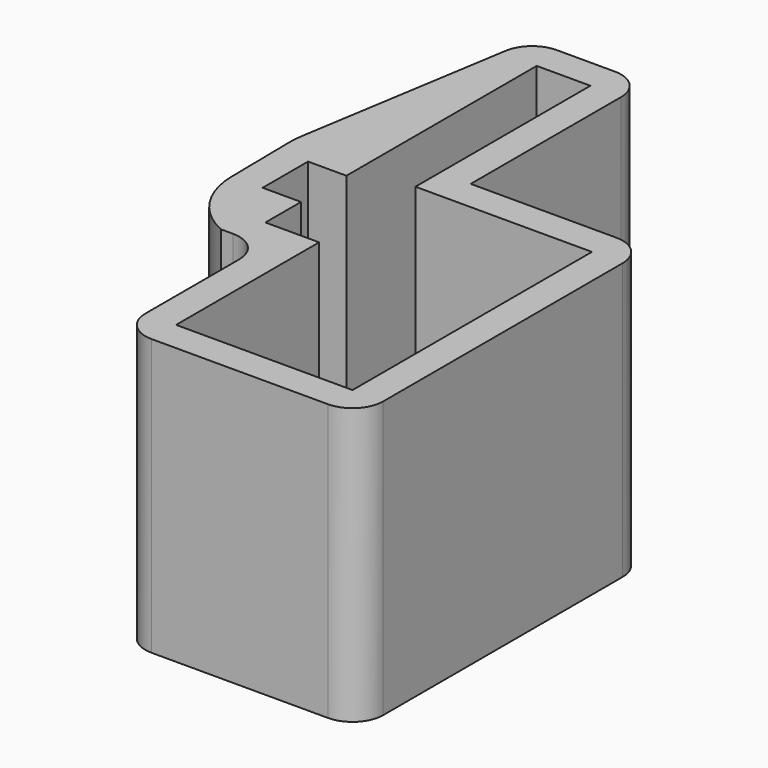
from build123d import *

# Parameters (mm, degrees)
F1_DEPTH = 32
F2_R     = 8.5
F3_DEPTH = 4


with BuildPart() as f1:
    # F0 (on Top) → F1 (new body)
    with BuildSketch(Plane.XY):
        with BuildLine():
            Line((0, -27.3), (23, -27.3))
            ThreePointArc((23, -27.3), (25.828427, -26.128427), (27, -23.3))
            Line((27, -23.3), (27, 15.7))
            ThreePointArc((27, 15.7), (25.828427, 18.528427), (23, 19.7))
            Line((23, 19.7), (4, 19.7))
            Line((4, 19.7), (4, 44.2))
            ThreePointArc((4, 44.2), (2.828427, 47.028427), (0, 48.2))
            Line((0, 48.2), (-7, 48.2))
            Line((-7, 48.2), (-7.593466, 48.2))
            ThreePointArc((-7.593466, 48.2), (-10.186947, 47.245301), (-11.542431, 44.83693))
            Line((-11.542431, 44.83693), (-15.948964, 17.51642))
            ThreePointArc((-15.948964, 17.51642), (-16.031743, 16.929694), (-16.091285, 16.340156))
            ThreePointArc((-16.091285, 16.340156), (-16.128077, 15.734541), (-16.140348, 15.127934))
            Line((-16.140348, 15.127934), (-16, 5.8))
            ThreePointArc((-16, 5.8), (-14.234983, -0.03861), (-9.596876, -4))
            Line((-9.596876, -4), (-8, -4))
            ThreePointArc((-8, -4), (-5.171573, -5.171573), (-4, -8))
            Line((-4, -8), (-4, -23.3))
            ThreePointArc((-4, -23.3), (-2.828427, -26.128427), (0, -27.3))
        make_face()
        Polygon((0, -23.3), (0, 0), (-7, 0), (-7, 5.8), (-12, 5.8), (-12, 13.2), (-7, 13.2), (-7, 44.2), (0, 44.2), (0, 15.7), (23, 15.7), (23, -23.3), align=None, mode=Mode.SUBTRACT)
    extrude(amount=F1_DEPTH)

    # F2 (on face) → F3 (join)
    with BuildSketch(Plane(origin=(0, 0, 0), x_dir=(1, 0, 0), z_dir=(0, 0, -1))):
        with BuildLine():
            ThreePointArc((-11.542431, -44.83693), (-10.186947, -47.245301), (-7.593466, -48.2))
            Line((-7.593466, -48.2), (0, -48.2))
            ThreePointArc((0, -48.2), (2.828427, -47.028427), (4, -44.2))
            Line((4, -44.2), (4, -19.7))
            Line((4, -19.7), (23, -19.7))
            ThreePointArc((23, -19.7), (25.828427, -18.528427), (27, -15.7))
            Line((27, -15.7), (27, 23.3))
            ThreePointArc((27, 23.3), (25.828427, 26.128427), (23, 27.3))
            Line((23, 27.3), (0, 27.3))
            ThreePointArc((0, 27.3), (-2.828427, 26.128427), (-4, 23.3))
            Line((-4, 23.3), (-4, 8))
            ThreePointArc((-4, 8), (-5.171573, 5.171573), (-8, 4))
            Line((-8, 4), (-9.596876, 4))
            ThreePointArc((-9.596876, 4), (-14.234983, 0.03861), (-16, -5.8))
            Line((-16, -5.8), (-16.140348, -15.127934))
            ThreePointArc((-16.140348, -15.127934), (-16.092425, -16.326005), (-15.948964, -17.51642))
            Line((-15.948964, -17.51642), (-11.542431, -44.83693))
        make_face()
        Polygon((-7, 0), (0, 0), (0, 23.3), (23, 23.3), (23, -15.7), (0, -15.7), (0, -44.2), (-7, -44.2), (-7, -13.2), (-12, -13.2), (-12, -5.8), (-7, -5.8), align=None, mode=Mode.SUBTRACT)
        Polygon((0, 23.3), (0, 0), (-7, 0), (-7, -5.8), (-12, -5.8), (-12, -13.2), (-7, -13.2), (-7, -44.2), (0, -44.2), (0, -15.7), (23, -15.7), (23, 23.3), align=None)
        with Locations((11.35, 9.8)):
            Circle(F2_R, mode=Mode.SUBTRACT)
    extrude(amount=F3_DEPTH)


solid = f1.part
